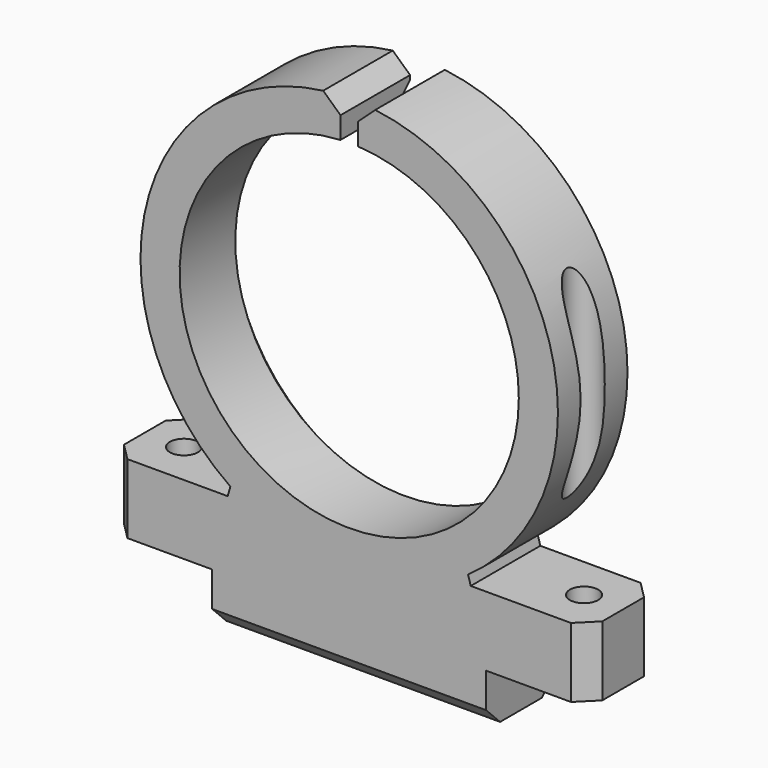
from build123d import *

# Parameters (mm, degrees)
SKETCH027_R         = 19.5
PAD014_DEPTH        = 10
HOLE004_D           = 3.25
HOLE004_DEPTH       = 55
HOLE004_CBORE_D     = 4
HOLE004_CBORE_DEPTH = 30
POCKET003_DEPTH     = 4
SKETCH033_W         = 2
SKETCH033_H         = 10
POCKET004_DEPTH     = 12
CHAMFER005_SIZE     = 2


with BuildPart() as part:
    # Sketch027 → Pad014 (new body)
    with BuildSketch(Plane.XZ.offset(85)):
        with BuildLine():
            Line((-27.5, 6), (-27.5, 13.999999))
            Line((-27.5, 13.999999), (-11.973302, 13.999999))
            ThreePointArc((11.973302, 13.999999), (0, 58.8), (-11.973302, 13.999999))
            Line((27.5, 13.999999), (11.973302, 13.999999))
            Line((27.5, 6), (27.5, 13.999999))
            Line((15.75, 6), (27.5, 6))
            Line((15.75, 6), (15.75, 0))
            Line((15.75, 0), (-15.75, 0))
            Line((-15.75, 6), (-15.75, 0))
            Line((-15.75, 6), (-27.5, 6))
        make_face()
        with Locations((0, 34.8)):
            Circle(SKETCH027_R, mode=Mode.SUBTRACT)
    extrude(amount=PAD014_DEPTH)

    # Hole004
    with Locations(Plane.XY.offset(50)):
        with Locations((-23, -90), (23, -90)):
            CounterBoreHole(HOLE004_D / 2, HOLE004_CBORE_D / 2, HOLE004_CBORE_DEPTH, depth=HOLE004_DEPTH)

    # Sketch029 → Pocket003 (cut)
    with BuildSketch(Plane.XY.offset(6)):
        Polygon((-21.412287, -92.75), (-19.824574, -90), (-21.412287, -87.25), (-24.587713, -87.25), (-26.175426, -90), (-24.587713, -92.75), align=None)
        Polygon((24.587713, -92.75), (26.175426, -90), (24.587713, -87.25), (21.412287, -87.25), (19.824574, -90), (21.412287, -92.75), align=None)
    extrude(amount=POCKET003_DEPTH, mode=Mode.SUBTRACT)

    # Sketch033 → Pocket004 (cut)
    with BuildSketch(Plane.XZ.offset(84)):
        with Locations((0, 57)):
            Rectangle(SKETCH033_W, SKETCH033_H)
    extrude(amount=POCKET004_DEPTH, mode=Mode.SUBTRACT)

    # Chamfer005
    chamfer005_edges = [part.edges().sort_by_distance(p)[0] for p in [
        (27.5, -85, 10),
        (-27.5, -85, 10),
        (0, -85, 0),
        (14.137716, -85, 48.230376),
        (-13.430376, -85, 20.662284),
        (11.973302, -90, 13.999999),
        (-11.973302, -90, 13.999999),
        (27.5, -95, 10),
        (-27.5, -95, 10),
        (0, -95, 0),
        (-1, -90, 58.779158),
        (1, -90, 58.779158),
    ]]
    chamfer(chamfer005_edges, length=CHAMFER005_SIZE)


solid = part.part
